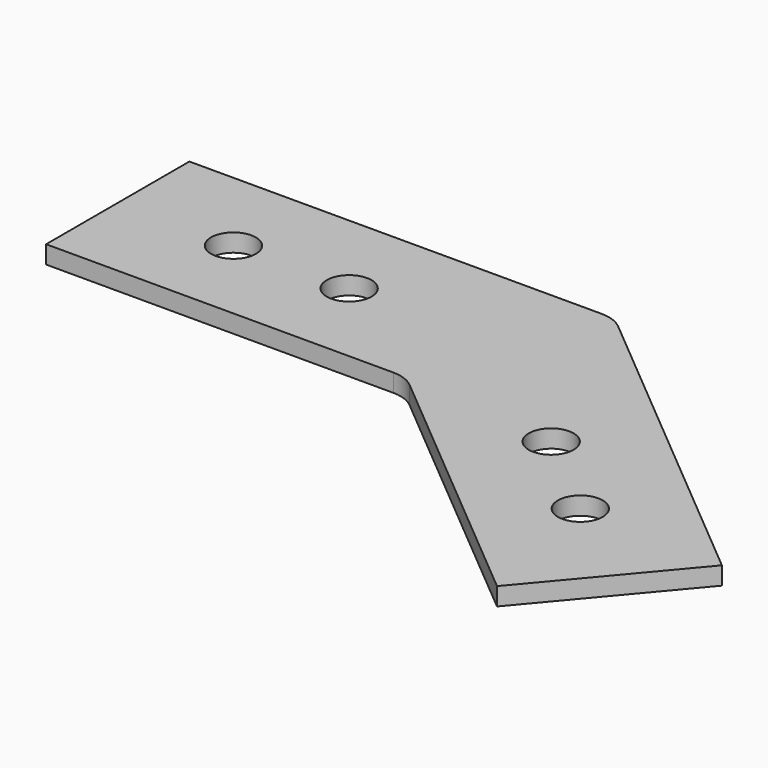
from build123d import *

# Parameters (mm, degrees)
F1_DEPTH = 1.27
F2_D     = 3.175


with BuildPart() as f1:
    # F0 (on Top) → F1 (new body)
    with BuildSketch(Plane.XY):
        with BuildLine():
            Line((31.536058659, 29.1168457048), (2.298043054, 29.1168457048))
            Line((2.298043054, 29.1168457048), (2.298043054, 16.4168457048))
            Line((2.298043054, 16.4168457048), (26.9136366838, 16.4168457048))
            ThreePointArc((26.9136366838, 16.4168457048), (27.7823678479, 16.2636649616), (28.5463172124, 15.8225985903))
            Line((28.5463172124, 15.8225985903), (47.4029559266, 0))
            Line((47.4029559266, 0), (55.5663585696, 9.7287644276))
            Line((55.5663585696, 9.7287644276), (33.1687391876, 28.5225985903))
            ThreePointArc((33.1687391876, 28.5225985903), (32.404789823, 28.9636649616), (31.536058659, 29.1168457048))
        make_face()
    extrude(amount=F1_DEPTH)

    # F2 (through all)
    with Locations(Plane(origin=(0, 0, 0), x_dir=(1, 0, 0), z_dir=(0, 0, -1))):
        with Locations((10.502243054, -22.7668457048), (18.706443054, -22.7668457048), (38.9150936076, -15.4114984286), (45.1998754279, -10.1379403212)):
            Hole(F2_D / 2)


solid = f1.part
